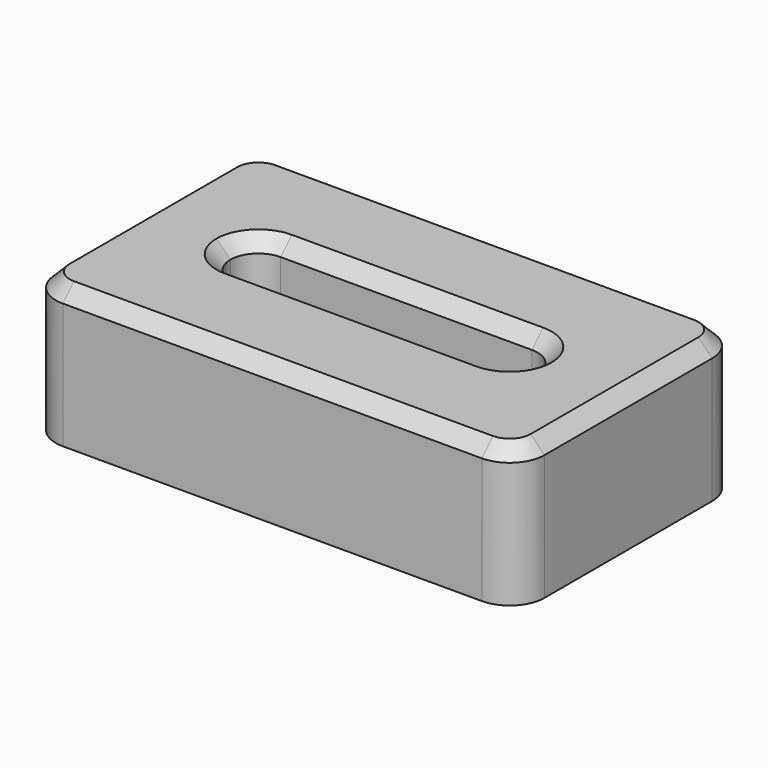
from build123d import *

# Parameters (mm, degrees)
F1_DEPTH = 20
F2_DEPTH = 12
F3_SIZE  = 2


with BuildPart() as f1:
    # F0 (on Top) → F1 (new body)
    with BuildSketch(Plane.XY):
        with BuildLine():
            Line((-65, 0), (-5, 0))
            ThreePointArc((-5, 0), (-1.464466, 1.464466), (0, 5))
            Line((0, 5), (0, 35))
            ThreePointArc((0, 35), (-1.464466, 38.535534), (-5, 40))
            Line((-5, 40), (-65, 40))
            ThreePointArc((-65, 40), (-68.535534, 38.535534), (-70, 35))
            Line((-70, 35), (-70, 5))
            ThreePointArc((-70, 5), (-68.535534, 1.464466), (-65, 0))
        make_face()
        with BuildLine():
            ThreePointArc((-57, 20), (-55.828427, 22.828427), (-53, 24))
            Line((-53, 24), (-17, 24))
            ThreePointArc((-17, 24), (-14.171573, 22.828427), (-13, 20))
            ThreePointArc((-13, 20), (-14.171573, 17.171573), (-17, 16))
            Line((-17, 16), (-53, 16))
            ThreePointArc((-53, 16), (-55.828427, 17.171573), (-57, 20))
        make_face(mode=Mode.SUBTRACT)
    extrude(amount=F1_DEPTH)

    # F0 (on Top) → F2 (join)
    with BuildSketch(Plane.XY):
        with BuildLine():
            Line((-17, 24), (-53, 24))
            ThreePointArc((-53, 24), (-55.828427, 22.828427), (-57, 20))
            ThreePointArc((-57, 20), (-55.828427, 17.171573), (-53, 16))
            Line((-53, 16), (-17, 16))
            ThreePointArc((-17, 16), (-14.171573, 17.171573), (-13, 20))
            ThreePointArc((-13, 20), (-14.171573, 22.828427), (-17, 24))
        make_face()
    extrude(amount=F2_DEPTH)

    # F3
    f3_edges = [f1.edges().sort_by_distance(p)[0] for p in [
        (-35, 24, 20),
        (-35, 0, 20),
    ]]
    chamfer(f3_edges, length=F3_SIZE)


solid = f1.part
